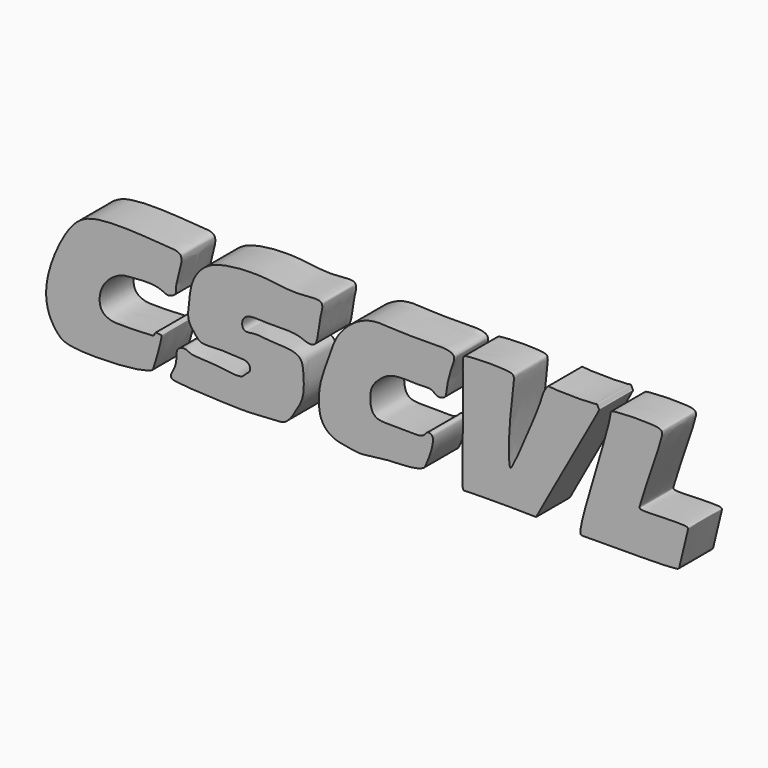
from build123d import *

# Parameters (mm, degrees)
F1_DEPTH = 5


with BuildPart() as f1:
    # F0 (on Front) → F1 (new body)
    with BuildSketch(Plane.XZ):
        with BuildLine():
            add(Edge.make_bspline(
                [(-18.9734119922, 21.3578399271), (-18.1920634711, 21.5549561189), (-13.3799981302, 21.6702549418), (-13.1098219863, 21.0921864549), (-13.0080468529, 20.4415061631), (-15.8533116695, 12.6997237434), (-15.7503513308, 12.2819109462), (-15.1182093168, 12.1063030272), (-9.9574907797, 12.4579380181), (-10.0662428107, 11.7861727775), (-11.0774374921, 7.7427788704), (-11.1613078534, 7.2207101408), (-22.0805253209, 7.3381493473), (-23.4069099729, 7.1467899349), (-18.8334830026, 20.8463081881), (-19.2350688591, 21.2918299408), (-18.9734119922, 21.3578399271)],
                knots=[0, 0, 0, 0, 0.1051100638, 0.1351670813, 0.1721565587, 0.300820356, 0.3259011154, 0.3608577832, 0.4604500606, 0.4892542177, 0.5797463174, 0.6139483749, 0.7606089181, 0.7991050245, 0.9648008933, 1, 1, 1, 1], degree=3))
        make_face()
    extrude(amount=F1_DEPTH)


with BuildPart() as f1b:
    # F0 (on Front) → F1, piece 2 (new body)
    with BuildSketch(Plane.XZ):
        with BuildLine():
            add(Edge.make_bspline(
                [(-36.6023741663, 21.0433658212), (-36.6882674886, 20.3359965168), (-36.4753489116, 15.4012361827), (-36.8164173573, 7.9510895871), (-36.5393184149, 7.3785424149), (-36.1817148221, 7.5117531331), (-27.8548562226, 7.4833177354), (-28.1259784633, 7.3380613934), (-20.2449332911, 21.325641674), (-20.5706165261, 20.9908043124), (-20.766364917, 21.6048476064), (-20.9981619327, 21.3266513136), (-26.2721128992, 21.3758085614), (-26.5650494932, 21.5925919776), (-27.1831311783, 20.6605381275), (-27.2849271089, 19.6717381219), (-30.6170334181, 11.8333000275), (-31.2461623188, 11.3547813646), (-31.2015568261, 16.8811731233), (-30.4417311687, 21.0008031139), (-30.8889022607, 21.7207715416), (-36.2530724198, 21.5986623709), (-36.5211464271, 21.3679123383), (-36.5819663623, 21.2114330663), (-36.6023741663, 21.0433658212)],
                knots=[0, 0, 0, 0, 0.0747436154, 0.1617484056, 0.1800699245, 0.1996623168, 0.2890680225, 0.3030051009, 0.4264450428, 0.4311967704, 0.4532277069, 0.4689878723, 0.5407393767, 0.5597468205, 0.5879207286, 0.6251406894, 0.7165960731, 0.7318063766, 0.8024478494, 0.8685524055, 0.89319315, 0.9649446672, 0.9822413081, 1, 1, 1, 1], degree=3))
        make_face()
    extrude(amount=F1_DEPTH)


with BuildPart() as f1c:
    # F0 (on Front) → F1, piece 3 (new body)
    with BuildSketch(Plane.XZ):
        with BuildLine():
            add(Edge.make_bspline(
                [(-37.7221219242, 21.0433658212), (-38.0019446368, 21.4875178114), (-40.5941620595, 21.496060224), (-43.8942226518, 21.3767190147), (-47.5178805012, 21.8276607759), (-50.0798476026, 20.3573791308), (-51.6952615398, 18.4121096621), (-52.3250129403, 16.3952998388), (-53.4466766249, 13.4371394756), (-53.6716365772, 11.5986422537), (-53.5729158537, 9.3310473869), (-52.2817093486, 7.885713717), (-50.6467217745, 7.5241045606), (-49.0325928098, 7.2827495857), (-48.3612094326, 7.278045553), (-45.9751469197, 7.5600664777), (-45.3953924138, 7.6998720614), (-42.6696719416, 7.7002293833), (-41.2831207531, 8.1509675318), (-41.0204704446, 8.4474084274), (-39.6103346405, 11.9798760102), (-40.9389593604, 12.1943094698), (-41.2189154449, 11.2829651264), (-43.466382185, 11.4855056147), (-45.2123967859, 11.4251233861), (-46.671123522, 11.4405593422), (-47.4141512707, 12.0666849089), (-47.6254050516, 13.4005794071), (-47.4266945018, 14.8656479833), (-46.2476492237, 15.9574483619), (-45.1920217608, 16.6479208087), (-43.5074787739, 16.7730079122), (-41.5178772687, 16.638415493), (-40.2648357669, 16.8032487257), (-39.699764508, 16.0589443256), (-38.7566929218, 16.2653811526), (-38.5458972806, 16.8343624378), (-38.4701921056, 17.9738726816), (-38.1501830467, 18.9648773086), (-37.9679632896, 19.7761732479), (-37.5288200288, 20.7365450464), (-37.7221219242, 21.0433658212)],
                knots=[0, 0, 0, 0, 0.0329140474, 0.0722926964, 0.1106685851, 0.1450183866, 0.1767488844, 0.2068025694, 0.2428151607, 0.2711930517, 0.3011768001, 0.3284417513, 0.3550744252, 0.3804126363, 0.3984200188, 0.429055144, 0.4467578852, 0.4802758249, 0.5042246197, 0.5180820534, 0.5556201552, 0.5723096164, 0.5895236019, 0.6187282548, 0.6472004263, 0.671075821, 0.6899079653, 0.7131007255, 0.7377339678, 0.7630469135, 0.7857292071, 0.8120696152, 0.8414773422, 0.8635487891, 0.8818162181, 0.8999473698, 0.9151028632, 0.9369589582, 0.957757167, 0.9772629331, 1, 1, 1, 1], degree=3))
        make_face()
    extrude(amount=F1_DEPTH)


with BuildPart() as f1d:
    # F0 (on Front) → F1, piece 4 (new body)
    with BuildSketch(Plane.XZ):
        with BuildLine():
            add(Edge.make_bspline(
                [(-53.3461533487, 21.4773658663), (-53.6856071372, 21.8234847537), (-56.3468505919, 21.2263955776), (-60.4689384695, 22.1726422738), (-65.3756624409, 21.7042125126), (-67.3419753669, 20.6429187795), (-68.687627755, 18.878503307), (-68.9604060112, 16.4179935608), (-69.1968171692, 14.5174129095), (-68.2630415538, 13.4145317111), (-67.616178284, 12.5263754825), (-65.8100063192, 12.7627372446), (-63.3670759563, 12.625397163), (-61.8952706542, 12.5982797327), (-61.584716743, 11.5758629312), (-62.3104474606, 11.2019731379), (-62.7142181323, 10.4828220914), (-65.1926184794, 10.8962939202), (-66.9542070368, 11.0244164496), (-68.7760434569, 11.031710389), (-69.3900045032, 11.58522325), (-70.4683950423, 11.2074251262), (-70.3958270437, 10.1997760624), (-70.5727659358, 9.0380241507), (-71.4552001229, 7.8066864719), (-69.902723013, 7.6049359981), (-67.8336193798, 7.4671377219), (-63.7615272865, 7.3036881878), (-61.5969185435, 7.2719927083), (-58.9066524271, 7.5104378271), (-57.4051612635, 7.5004157637), (-56.2853741942, 9.3399430272), (-55.3108676859, 10.9680169716), (-55.4286674993, 13.5149523578), (-55.6330642269, 15.0083331686), (-57.2007846871, 15.5200389294), (-59.1611842776, 15.4162248495), (-61.0447476938, 15.8390628755), (-62.633420412, 15.3349607909), (-62.7671483965, 16.7065095267), (-61.9327247542, 17.4345101541), (-60.1005611859, 17.2575435871), (-58.3374965539, 17.314053852), (-55.9973588986, 17.2938817757), (-54.948508706, 16.6613608236), (-53.9214539688, 16.7888958529), (-53.7203770306, 18.1358970359), (-53.4764198678, 19.8664755994), (-53.2961541388, 20.4806221261), (-53.143985327, 21.271228321), (-53.3461533487, 21.4773658663)],
                knots=[0, 0, 0, 0, 0.0261917545, 0.0613043643, 0.0968373752, 0.1205516302, 0.1438574253, 0.1694645868, 0.191505848, 0.2102916248, 0.2261911018, 0.2472429685, 0.2734347416, 0.2921508596, 0.3060917346, 0.3195775035, 0.3331047178, 0.357616096, 0.3806469056, 0.4017424036, 0.415849798, 0.4310432732, 0.4462946301, 0.4646335698, 0.4816431406, 0.4981085587, 0.5226372486, 0.5551677723, 0.5799551831, 0.6061696337, 0.6252560824, 0.6478128555, 0.6705714611, 0.6962119964, 0.7151122261, 0.734386733, 0.7573966224, 0.7804274532, 0.798945798, 0.8146512685, 0.8305507454, 0.8519391296, 0.8743021802, 0.8988308501, 0.916615534, 0.9309188026, 0.9490814408, 0.9705939285, 0.9844010131, 1, 1, 1, 1], degree=3))
        make_face()
    extrude(amount=F1_DEPTH)


with BuildPart() as f1e:
    # F0 (on Front) → F1, piece 5 (new body)
    with BuildSketch(Plane.XZ):
        with BuildLine():
            add(Edge.make_bspline(
                [(-69.8748230934, 20.8116807044), (-70.0061554885, 21.3250064185), (-71.8518414427, 21.3787857791), (-79.9228969054, 22.1055215183), (-83.1873605504, 20.0731741162), (-85.953796801, 14.0689575593), (-85.8872205454, 10.2261163543), (-84.4651093742, 7.9834503969), (-82.9573145646, 7.0221979285), (-75.4189001812, 7.1639570264), (-73.3070774121, 7.9257090862), (-73.1527812012, 8.1152908436), (-71.9769787476, 12.0998550514), (-72.3517685389, 11.9135899773), (-72.9718257123, 12.1602284295), (-73.030774299, 11.5903680073), (-73.5772706138, 11.5316481051), (-77.3428218443, 11.4020491052), (-78.2014988098, 11.5418740655), (-79.2245539533, 11.9701579453), (-79.6459561547, 13.192089156), (-79.2254190637, 15.1683269473), (-77.2366675438, 16.7320248847), (-75.5390509001, 16.8368983798), (-72.7543927591, 17.0274480715), (-71.6355525215, 16.3386265637), (-71.3072598055, 16.3660209705), (-70.3628158045, 16.6524493236), (-70.701259323, 17.6839778431), (-69.6990936303, 20.1248246391), (-69.8748230934, 20.8116807044)],
                knots=[0, 0, 0, 0, 0.0345340814, 0.1079054722, 0.1581014407, 0.2228357356, 0.2733772836, 0.3126066494, 0.3466064355, 0.4178724736, 0.454208486, 0.4690169178, 0.5194614869, 0.5292679885, 0.5484039656, 0.5640619697, 0.5818803172, 0.6318239831, 0.6578088104, 0.6828324361, 0.7107514696, 0.7466806707, 0.7860963559, 0.8203750219, 0.8634477939, 0.8913668846, 0.9059568221, 0.9283929235, 0.9537916325, 1, 1, 1, 1], degree=3))
        make_face()
    extrude(amount=F1_DEPTH)


solid = Compound([f1.part, f1b.part, f1c.part, f1d.part, f1e.part])
